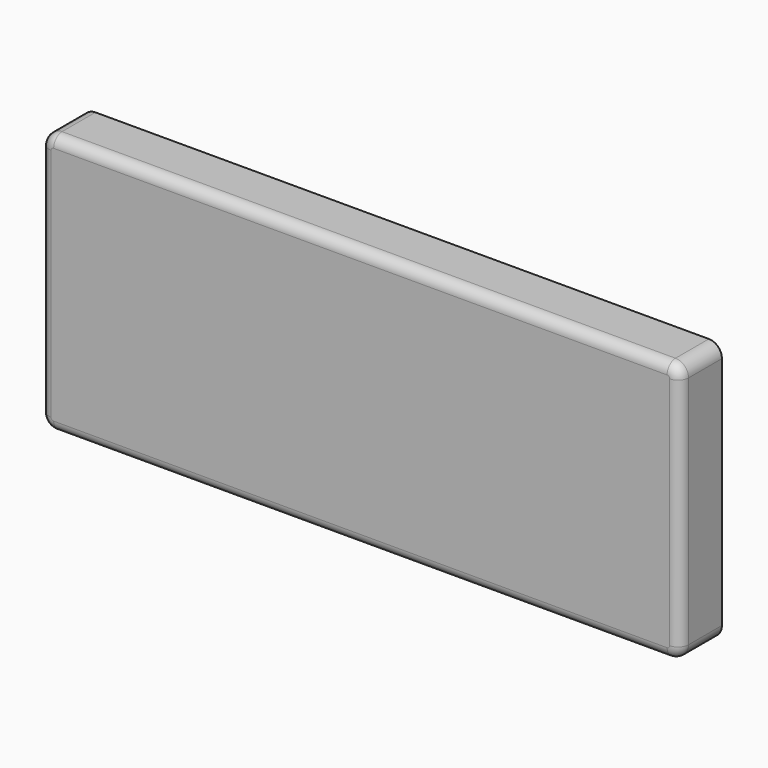
from build123d import *

# Parameters (mm, degrees)
F1_DEPTH = 25.4
F2_R     = 5.08


with BuildPart() as f1:
    # F0 (on Front) → F1 (new body)
    with BuildSketch(Plane.XZ):
        with BuildLine():
            ThreePointArc((0, 6.35), (1.859872, 1.859872), (6.35, 0))
            Line((6.35, 0), (304.8, 0))
            ThreePointArc((304.8, 0), (309.290128, 1.859872), (311.15, 6.35))
            Line((311.15, 6.35), (311.15, 120.65))
            ThreePointArc((311.15, 120.65), (309.290128, 125.140128), (304.8, 127))
            Line((304.8, 127), (6.35, 127))
            ThreePointArc((6.35, 127), (1.859872, 125.140128), (0, 120.65))
            Line((0, 120.65), (0, 6.35))
        make_face()
    extrude(amount=F1_DEPTH)

    # F2
    f2_edges = [f1.edges().sort_by_distance(p)[0] for p in [
        (155.575, -25.4, 127),
        (311.15, -25.4, 63.5),
        (155.575, -25.4, 0),
        (0, -25.4, 63.5),
    ]]
    fillet(f2_edges, radius=F2_R)


solid = f1.part
